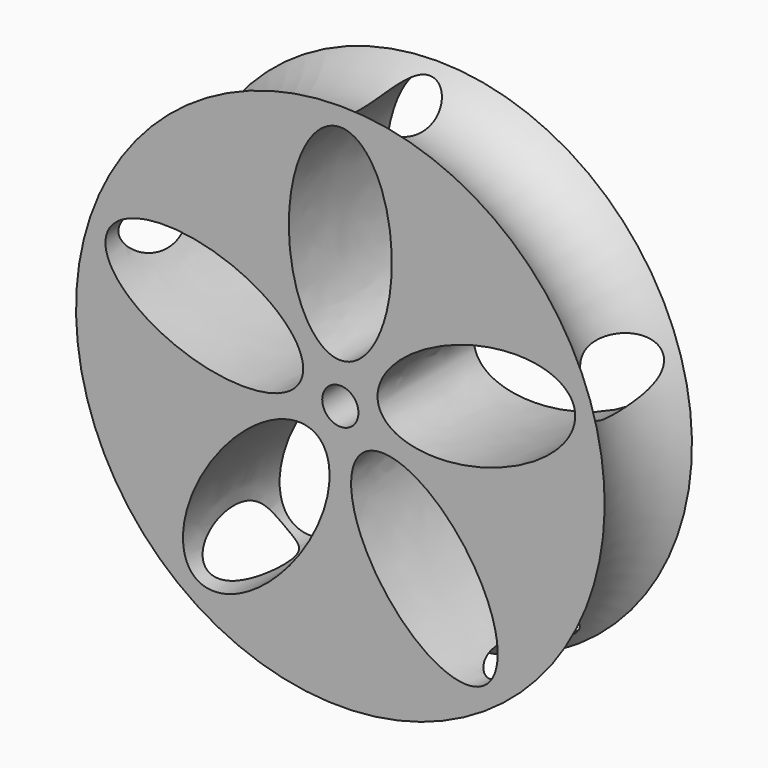
from build123d import *

# Parameters (mm, degrees)
F0_R     = 58.340136
F1_DEPTH = 25.4
F4_DEPTH = 25.4
F5_R     = 15.418956
F8_D     = 7.62


with BuildPart() as f1:
    # F0 (on Front) → F1 (new body)
    with BuildSketch(Plane.XZ):
        Circle(F0_R)
        Circle(F0_R)
    extrude(amount=F1_DEPTH)

    # F2 (on face) + F3 (on face) → F4 (cut)
    with BuildSketch(Plane.XZ.offset(25.4)):
        with BuildLine():
            add(Edge.make_bspline(
                [(4.999535, -6.88127), (-10.179697, -17.909627), (16.432589, -38.577908), (43.044875, -59.246188), (31.611821, -27.54955), (20.178767, 4.147088), (4.999535, -6.88127)],
                knots=[0, 0, 0, 2.094395, 2.094395, 4.18879, 4.18879, 6.283185, 6.283185, 6.283185], degree=2, weights=[1, 0.5, 1, 0.5, 1, 0.5, 1]))
        make_face()
        with BuildLine():
            add(Edge.make_bspline(
                [(-8.089418, 2.628411), (-2.291467, 20.472669), (-35.969769, 21.551349), (-69.648071, 22.63003), (-41.76772, 3.707092), (-13.887368, -15.215847), (-8.089418, 2.628411)],
                knots=[0, 0, 0, 2.094395, 2.094395, 4.18879, 4.18879, 6.283185, 6.283185, 6.283185], degree=2, weights=[1, 0.5, 1, 0.5, 1, 0.5, 1]))
        make_face()
        with BuildLine():
            add(Edge.make_bspline(
                [(-4.999535, -6.88127), (-20.178767, 4.147088), (-31.611821, -27.54955), (-43.044875, -59.246188), (-16.432589, -38.577908), (10.179697, -17.909627), (-4.999535, -6.88127)],
                knots=[0, 0, 0, 2.094395, 2.094395, 4.18879, 4.18879, 6.283185, 6.283185, 6.283185], degree=2, weights=[1, 0.5, 1, 0.5, 1, 0.5, 1]))
        make_face()
        with BuildLine():
            add(Edge.make_bspline(
                [(8.089418, 2.628411), (13.887368, -15.215847), (41.76772, 3.707092), (69.648071, 22.63003), (35.969769, 21.551349), (2.291467, 20.472669), (8.089418, 2.628411)],
                knots=[0, 0, 0, 2.094395, 2.094395, 4.18879, 4.18879, 6.283185, 6.283185, 6.283185], degree=2, weights=[1, 0.5, 1, 0.5, 1, 0.5, 1]))
        make_face()
    with BuildSketch(Plane.XZ.offset(25.4)):
        with BuildLine():
            add(Edge.make_bspline(
                [(0, 8.505717), (18.762563, 8.505717), (9.381281, 40.869016), (0, 73.232315), (-9.381281, 40.869016), (-18.762563, 8.505717), (0, 8.505717)],
                knots=[0, 0, 0, 2.094395, 2.094395, 4.18879, 4.18879, 6.283185, 6.283185, 6.283185], degree=2, weights=[1, 0.5, 1, 0.5, 1, 0.5, 1]))
        make_face()
    extrude(amount=-F4_DEPTH, mode=Mode.SUBTRACT)

    # F5 (on Right) → F6 (revolve, cut)
    with BuildSketch(Plane.YZ):
        with Locations((-12.032464, 63.274451)):
            Circle(F5_R)
    revolve(axis=Axis((0, -25.4, 0), (0, -1, 0)), mode=Mode.SUBTRACT)

    # F8 (through all)
    with Locations(Plane.XZ.offset(25.4)):
        with Locations((0, 0)):
            Hole(F8_D / 2)


solid = f1.part
